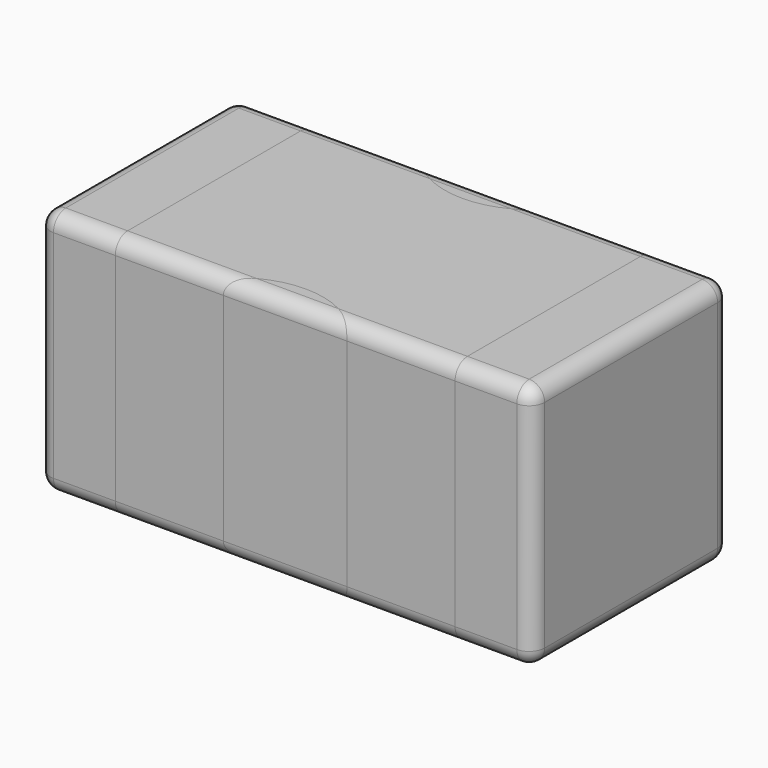
from build123d import *

# Parameters (mm, degrees)
F2_DEPTH = 0.8
F1_W     = 0.25
F1_H     = 0.8
F3_DEPTH = 0.8
F4_DEPTH = 0.8
F5_R     = 0.05
F5_2_R   = 0.05
F5_3_R   = 0.05
F5_4_R   = 0.05
F5_5_R   = 0.05


with BuildPart() as f2:
    # F1 (on Top) → F2 (new body)
    with BuildSketch(Plane.XY):
        with BuildLine():
            Line((0.55, -0.4), (0.55, 0.4))
            Line((0.55, 0.4), (0.2, 0.4))
            ThreePointArc((0.2, 0.4), (0, 0.3171572875), (-0.2, 0.4))
            Line((-0.2, 0.4), (-0.55, 0.4))
            Line((-0.55, 0.4), (-0.55, -0.4))
            Line((-0.55, -0.4), (-0.2, -0.4))
            ThreePointArc((-0.2, -0.4), (0, -0.3171572875), (0.2, -0.4))
            Line((0.2, -0.4), (0.55, -0.4))
        make_face()
    extrude(amount=F2_DEPTH)

    # F5#3
    f5_3_edges = [f2.edges().sort_by_distance(p)[0] for p in [
        (-0.375, 0.4, 0.8),
        (0.375, 0.4, 0.8),
        (0.375, -0.4, 0.8),
        (-0.375, -0.4, 0.8),
        (-0.375, 0.4, 0),
        (0.375, 0.4, 0),
        (-0.375, -0.4, 0),
        (0.375, -0.4, 0),
    ]]
    fillet(f5_3_edges, radius=F5_3_R)


with BuildPart() as f3:
    # F1 (on Top) → F3 (new body)
    with BuildSketch(Plane.XY):
        with Locations((-0.675, 0)):
            Rectangle(F1_W, F1_H)
    extrude(amount=F3_DEPTH)

    # F5
    f5_edges = [f3.edges().sort_by_distance(p)[0] for p in [
        (-0.8, 0.4, 0.4),
        (-0.8, -0.4, 0.4),
        (-0.8, 0, 0),
        (-0.8, 0, 0.8),
        (-0.675, 0.4, 0.8),
        (-0.675, -0.4, 0.8),
        (-0.675, -0.4, 0),
        (-0.675, 0.4, 0),
    ]]
    fillet(f5_edges, radius=F5_R)


with BuildPart() as f3b:
    # F1 (on Top) → F3, piece 2 (new body)
    with BuildSketch(Plane.XY):
        with Locations((0.675, 0)):
            Rectangle(F1_W, F1_H)
    extrude(amount=F3_DEPTH)

    # F5#2
    f5_2_edges = [f3b.edges().sort_by_distance(p)[0] for p in [
        (0.8, -0.4, 0.4),
        (0.8, 0.4, 0.4),
        (0.8, 0, 0),
        (0.8, 0, 0.8),
        (0.675, 0.4, 0.8),
        (0.675, -0.4, 0.8),
        (0.675, 0.4, 0),
        (0.675, -0.4, 0),
    ]]
    fillet(f5_2_edges, radius=F5_2_R)


with BuildPart() as f4:
    # F1 (on Top) → F4 (new body)
    with BuildSketch(Plane.XY):
        with BuildLine():
            Line((-0.2, -0.4), (0.2, -0.4))
            ThreePointArc((0.2, -0.4), (0, -0.3171572875), (-0.2, -0.4))
        make_face()
    extrude(amount=F4_DEPTH)

    # F5#5
    f5_5_edges = [f4.edges().sort_by_distance(p)[0] for p in [
        (0, -0.4, 0.8),
        (0, -0.4, 0),
    ]]
    fillet(f5_5_edges, radius=F5_5_R)


with BuildPart() as f4b:
    # F1 (on Top) → F4, piece 2 (new body)
    with BuildSketch(Plane.XY):
        with BuildLine():
            ThreePointArc((-0.2, 0.4), (0, 0.3171572875), (0.2, 0.4))
            Line((0.2, 0.4), (-0.2, 0.4))
        make_face()
    extrude(amount=F4_DEPTH)

    # F5#4
    f5_4_edges = [f4b.edges().sort_by_distance(p)[0] for p in [
        (0, 0.4, 0.8),
        (0, 0.4, 0),
    ]]
    fillet(f5_4_edges, radius=F5_4_R)


solid = Compound([f2.part, f3.part, f3b.part, f4.part, f4b.part])
